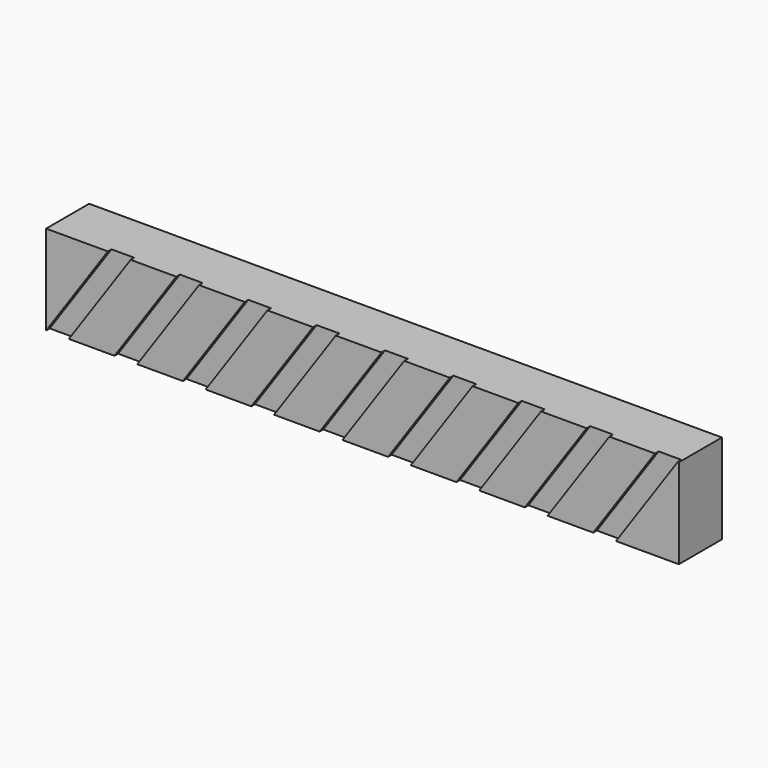
from build123d import *

# Parameters (mm, degrees)
F0_W     = 70.5
F0_H     = 10
F1_DEPTH = 6
F3_DEPTH = 0.508
F4_W     = 2
F4_H     = 8
F5_DEPTH = 15


with BuildPart() as f1:
    # F0 (on Front) → F1 (new body)
    with BuildSketch(Plane.XZ):
        with Locations((22.643538, 41.13415)):
            Rectangle(F0_W, F0_H)
    extrude(amount=F1_DEPTH)

    # F2 (on face) → F3 (cut)
    with BuildSketch(Plane.XZ.offset(6)):
        Polygon((-5.727013, 46.13415), (-12.606462, 36.13415), (-10.066462, 36.13415), (-3.187013, 46.13415), align=None)
        Polygon((4.432987, 46.13415), (1.892987, 46.13415), (-4.986462, 36.13415), (-2.446462, 36.13415), align=None)
        Polygon((12.052987, 46.13415), (9.512987, 46.13415), (2.633538, 36.13415), (5.173538, 36.13415), align=None)
        Polygon((19.672987, 46.13415), (17.132987, 46.13415), (10.253538, 36.13415), (12.793538, 36.13415), align=None)
        Polygon((27.292987, 46.13415), (24.752987, 46.13415), (17.873538, 36.13415), (20.413538, 36.13415), align=None)
        Polygon((34.912987, 46.13415), (32.372987, 46.13415), (25.493538, 36.13415), (28.033538, 36.13415), align=None)
        Polygon((42.532987, 46.13415), (39.992987, 46.13415), (33.113538, 36.13415), (35.653538, 36.13415), align=None)
        Polygon((50.152987, 46.13415), (47.612987, 46.13415), (40.733538, 36.13415), (43.273538, 36.13415), align=None)
        Polygon((57.772987, 46.13415), (55.232987, 46.13415), (48.353538, 36.13415), (50.893538, 36.13415), align=None)
    extrude(amount=-F3_DEPTH, mode=Mode.SUBTRACT)

    # F4 (on face) → F5 (cut)
    with BuildSketch(Plane(origin=(-12.606462, 0, 0), x_dir=(0, -1, 0), z_dir=(-1, 0, 0))):
        with Locations((2.5, 41.13415)):
            Rectangle(F4_W, F4_H)
    extrude(amount=-F5_DEPTH, mode=Mode.SUBTRACT)


solid = f1.part
